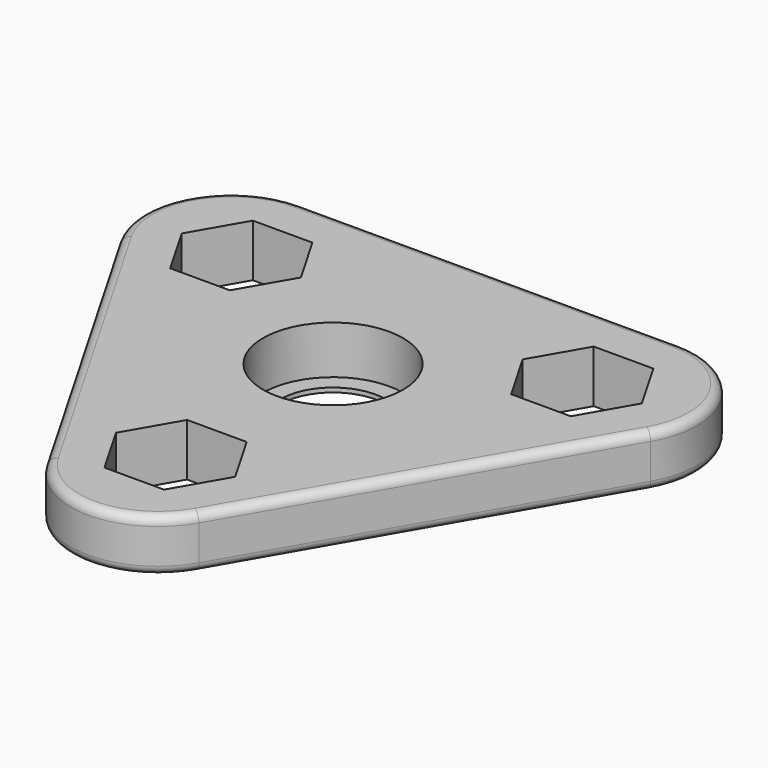
from build123d import *

# Parameters (mm, degrees)
F0_R     = 8
F1_DEPTH = 6
F2_R     = 8
F2_R_2   = 6
F3_DEPTH = 0.5
F4_R     = 1


with BuildPart() as f1:
    # F0 (on Top) → F1 (new body)
    with BuildSketch(Plane.XY):
        with BuildLine():
            Line((8.660254, -30), (30.310889, 7.5))
            ThreePointArc((30.310889, 7.5), (30.310889, 17.5), (21.650635, 22.5))
            Line((21.650635, 22.5), (-21.650635, 22.5))
            ThreePointArc((-21.650635, 22.5), (-30.310889, 17.5), (-30.310889, 7.5))
            Line((-30.310889, 7.5), (-8.660254, -30))
            ThreePointArc((-8.660254, -30), (0, -35), (8.660254, -30))
        make_face()
        Polygon((-3.406367, -16.6), (3.406367, -16.6), (6.812733, -22.5), (3.406367, -28.4), (-3.406367, -28.4), (-6.812733, -22.5), align=None, mode=Mode.SUBTRACT)
        Circle(F0_R, mode=Mode.SUBTRACT)
        Polygon((-16.079205, 17.15), (-12.672838, 11.25), (-16.079205, 5.35), (-22.891938, 5.35), (-26.298305, 11.25), (-22.891938, 17.15), align=None, mode=Mode.SUBTRACT)
        Polygon((22.891938, 5.35), (16.079205, 5.35), (12.672838, 11.25), (16.079205, 17.15), (22.891938, 17.15), (26.298305, 11.25), align=None, mode=Mode.SUBTRACT)
    extrude(amount=F1_DEPTH)

    # F2 (on Top) → F3 (join)
    with BuildSketch(Plane.XY):
        Circle(F2_R)
        Circle(F2_R_2, mode=Mode.SUBTRACT)
    extrude(amount=F3_DEPTH)

    # F4
    f4_edges = [f1.edges().sort_by_distance(p)[0] for p in [
        (0, 22.5, 6),
        (0, 22.5, 0),
    ]]
    fillet(f4_edges, radius=F4_R)


solid = f1.part
